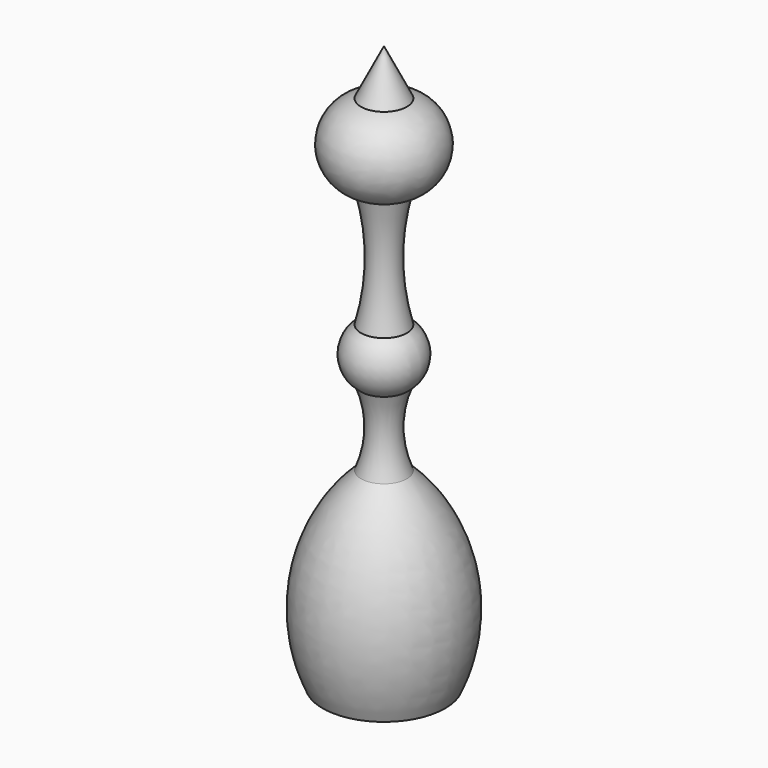
from build123d import *


with BuildPart() as f1:
    # F0 (on Front) → F1 (revolve)
    with BuildSketch(Plane.XZ):
        with BuildLine():
            Line((3.057707, -6.115414), (0, 0))
            Line((0, 0), (0, -75))
            Line((0, -75), (8.153886, -74.913822))
            ThreePointArc((8.153886, -74.913822), (9.679632, -61.477784), (3.057707, -49.687739))
            ThreePointArc((3.057707, -49.687739), (2.036016, -44.591561), (3.057707, -39.495382))
            ThreePointArc((3.057707, -39.495382), (4.825414, -36.055462), (3.057707, -32.615542))
            ThreePointArc((3.057707, -32.615542), (1.999504, -24.716466), (3.057707, -16.817389))
            ThreePointArc((3.057707, -16.817389), (7.158132, -11.466401), (3.057707, -6.115414))
        make_face()
    revolve(axis=Axis((0, 0, -37.5), (0, 0, -1)))


solid = f1.part
